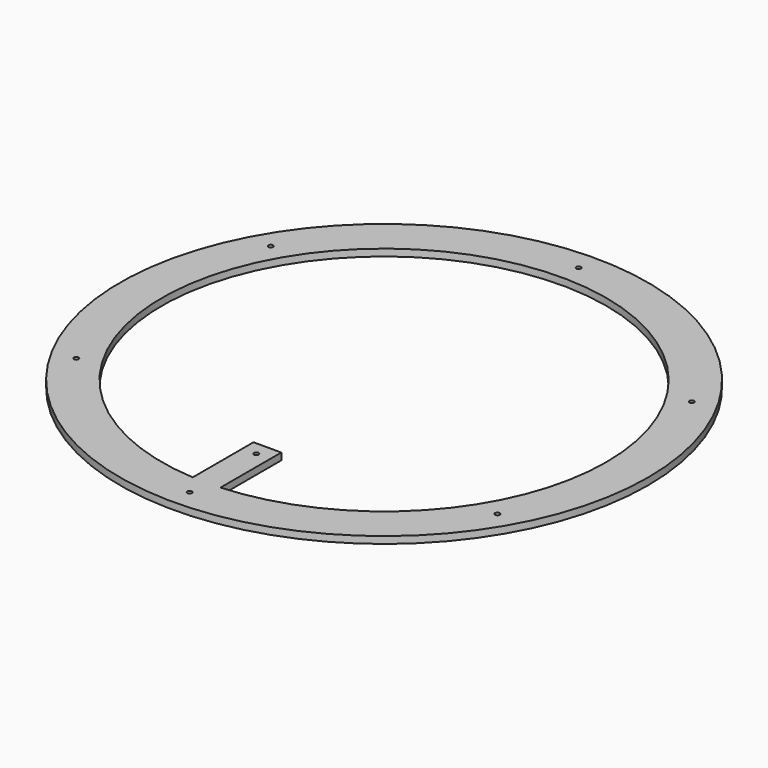
from build123d import *

# Parameters (mm, degrees)
F0_R     = 241.3
F0_R_2   = 2.15265
F0_R_3   = 203.2
F1_DEPTH = 6.35
F2_W     = 25.4
F2_H     = 69.452737
F2_R     = 2.15265
F3_DEPTH = 6.35


with BuildPart() as f1:
    # F0 (on Top) → F1 (new body)
    with BuildSketch(Plane.XY):
        Circle(F0_R)
        with Locations((-192.474146, -111.125)):
            Circle(F0_R_2, mode=Mode.SUBTRACT)
        with Locations((0, -222.25)):
            Circle(F0_R_2, mode=Mode.SUBTRACT)
        with Locations((192.474146, -111.125)):
            Circle(F0_R_2, mode=Mode.SUBTRACT)
        with Locations((-192.474146, 111.125)):
            Circle(F0_R_2, mode=Mode.SUBTRACT)
        Circle(F0_R_3, mode=Mode.SUBTRACT)
        with Locations((192.474146, 111.125)):
            Circle(F0_R_2, mode=Mode.SUBTRACT)
        with Locations((0, 222.25)):
            Circle(F0_R_2, mode=Mode.SUBTRACT)
    extrude(amount=F1_DEPTH)

    # F2 (on face) → F3 (join, through all)
    with BuildSketch(Plane.XY.offset(6.35)):
        with Locations((0, -168.076369)):
            Rectangle(F2_W, F2_H)
        with Locations((0, -146.05)):
            Circle(F2_R, mode=Mode.SUBTRACT)
        with BuildLine():
            Line((12.7, -202.802737), (-12.7, -202.802737))
            ThreePointArc((-12.7, -202.802737), (0, -203.2), (12.7, -202.802737))
        make_face()
    extrude(amount=-F3_DEPTH)


solid = f1.part
